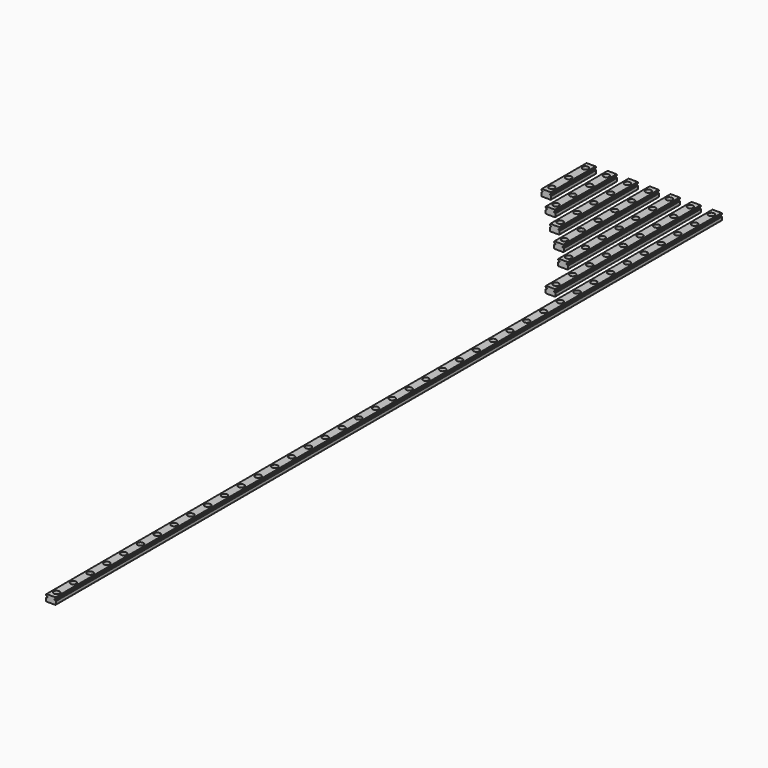
from build123d import *

# Parameters (mm, degrees)
F1_DEPTH         = 40
F2_DEPTH         = 55
F3_DEPTH         = 70
F4_DEPTH         = 85
F5_DEPTH         = 100
F6_DEPTH         = 130
F7_DEPTH         = 595
F9_D             = 2.4
F9_CBORE_D       = 4.2
F9_CBORE_DEPTH   = 2.3
F9_2_D           = 2.4
F9_2_CBORE_D     = 4.2
F9_2_CBORE_DEPTH = 2.3
F9_3_D           = 2.4
F9_3_CBORE_D     = 4.2
F9_3_CBORE_DEPTH = 2.3
F9_4_D           = 2.4
F9_4_CBORE_D     = 4.2
F9_4_CBORE_DEPTH = 2.3
F9_5_D           = 2.4
F9_5_CBORE_D     = 4.2
F9_5_CBORE_DEPTH = 2.3
F9_6_D           = 2.4
F9_6_CBORE_D     = 4.2
F9_6_CBORE_DEPTH = 2.3
F9_7_D           = 2.4
F9_7_CBORE_D     = 4.2
F9_7_CBORE_DEPTH = 2.3


with BuildPart() as f1:
    # F0 (on Front) → F1 (new body)
    with BuildSketch(Plane.XZ):
        with BuildLine():
            Line((-3.217157, -2.4), (3.217157, -2.4))
            Line((3.217157, -2.4), (3.5, -2.117157))
            Line((3.5, -2.117157), (3.5, 0.103098))
            ThreePointArc((3.5, 0.103098), (3.225225, 0.260663), (3.036438, 0.515))
            Line((3.036438, 0.515), (2.6, 0.515))
            Line((2.6, 0.515), (2.6, 1.165))
            Line((2.6, 1.165), (3.036438, 1.165))
            ThreePointArc((3.036438, 1.165), (3.225225, 1.419337), (3.5, 1.576902))
            Line((3.5, 1.576902), (3.5, 2.117157))
            Line((3.5, 2.117157), (3.217157, 2.4))
            Line((3.217157, 2.4), (-3.217157, 2.4))
            Line((-3.217157, 2.4), (-3.5, 2.117157))
            Line((-3.5, 2.117157), (-3.5, 1.576902))
            ThreePointArc((-3.5, 1.576902), (-3.225225, 1.419337), (-3.036438, 1.165))
            Line((-3.036438, 1.165), (-2.6, 1.165))
            Line((-2.6, 1.165), (-2.6, 0.515))
            Line((-2.6, 0.515), (-3.036438, 0.515))
            ThreePointArc((-3.036438, 0.515), (-3.225225, 0.260663), (-3.5, 0.103098))
            Line((-3.5, 0.103098), (-3.5, -2.117157))
            Line((-3.5, -2.117157), (-3.217157, -2.4))
        make_face()
    extrude(amount=F1_DEPTH)

    # F9 (through all)
    with Locations(Plane.XY.offset(2.4)):
        with Locations((0, -5), (0, -20), (0, -35), (15, -5), (15, -20), (15, -35), (15, -50), (30, -5), (45, -5), (60, -5), (75, -5), (90, -5), (60, -20), (45, -20), (30, -20), (60, -35), (90, -65), (90, -50), (45, -50), (45, -35), (75, -50), (75, -65), (30, -50), (30, -35), (60, -65), (60, -50), (45, -65), (30, -65), (90, -35), (90, -20), (75, -20), (75, -35), (90, -95), (75, -95), (60, -95), (90, -110), (75, -110), (90, -125), (75, -125), (90, -80), (75, -80), (60, -80), (45, -80), (90, -305), (90, -290), (90, -215), (90, -200), (90, -185), (90, -350), (90, -320), (90, -335), (90, -245), (90, -230), (90, -140), (90, -365), (90, -380), (90, -260), (90, -275), (90, -395), (90, -155), (90, -170), (90, -530), (90, -545), (90, -455), (90, -440), (90, -425), (90, -560), (90, -575), (90, -590), (90, -470), (90, -485), (90, -500), (90, -515), (90, -410), (90, -410), (90, -425), (90, -440), (90, -455), (90, -470), (90, -485), (90, -500), (90, -515), (90, -530), (90, -545), (90, -560), (90, -575), (90, -590)):
            CounterBoreHole(F9_D / 2, F9_CBORE_D / 2, F9_CBORE_DEPTH)


with BuildPart() as f2:
    # F0 (on Front) → F2 (new body)
    with BuildSketch(Plane.XZ):
        with BuildLine():
            Line((11.5, 0.103098), (11.5, -2.117157))
            Line((11.5, -2.117157), (11.782843, -2.4))
            Line((11.782843, -2.4), (18.217157, -2.4))
            Line((18.217157, -2.4), (18.5, -2.117157))
            Line((18.5, -2.117157), (18.5, 0.103098))
            ThreePointArc((18.5, 0.103098), (18.225225, 0.260663), (18.036438, 0.515))
            Line((18.036438, 0.515), (17.6, 0.515))
            Line((17.6, 0.515), (17.6, 1.165))
            Line((17.6, 1.165), (18.036438, 1.165))
            ThreePointArc((18.036438, 1.165), (18.225225, 1.419337), (18.5, 1.576902))
            Line((18.5, 1.576902), (18.5, 2.117157))
            Line((18.5, 2.117157), (18.217157, 2.4))
            Line((18.217157, 2.4), (11.782843, 2.4))
            Line((11.782843, 2.4), (11.5, 2.117157))
            Line((11.5, 2.117157), (11.5, 1.576902))
            ThreePointArc((11.5, 1.576902), (11.774775, 1.419337), (11.963562, 1.165))
            Line((11.963562, 1.165), (12.4, 1.165))
            Line((12.4, 1.165), (12.4, 0.515))
            Line((12.4, 0.515), (11.963562, 0.515))
            ThreePointArc((11.963562, 0.515), (11.774775, 0.260663), (11.5, 0.103098))
        make_face()
    extrude(amount=F2_DEPTH)

    # F9#2 (through all)
    with Locations(Plane.XY.offset(2.4)):
        with Locations((0, -5), (0, -20), (0, -35), (15, -5), (15, -20), (15, -35), (15, -50), (30, -5), (45, -5), (60, -5), (75, -5), (90, -5), (60, -20), (45, -20), (30, -20), (60, -35), (90, -65), (90, -50), (45, -50), (45, -35), (75, -50), (75, -65), (30, -50), (30, -35), (60, -65), (60, -50), (45, -65), (30, -65), (90, -35), (90, -20), (75, -20), (75, -35), (90, -95), (75, -95), (60, -95), (90, -110), (75, -110), (90, -125), (75, -125), (90, -80), (75, -80), (60, -80), (45, -80), (90, -305), (90, -290), (90, -215), (90, -200), (90, -185), (90, -350), (90, -320), (90, -335), (90, -245), (90, -230), (90, -140), (90, -365), (90, -380), (90, -260), (90, -275), (90, -395), (90, -155), (90, -170), (90, -530), (90, -545), (90, -455), (90, -440), (90, -425), (90, -560), (90, -575), (90, -590), (90, -470), (90, -485), (90, -500), (90, -515), (90, -410), (90, -410), (90, -425), (90, -440), (90, -455), (90, -470), (90, -485), (90, -500), (90, -515), (90, -530), (90, -545), (90, -560), (90, -575), (90, -590)):
            CounterBoreHole(F9_2_D / 2, F9_2_CBORE_D / 2, F9_2_CBORE_DEPTH)


with BuildPart() as f3:
    # F0 (on Front) → F3 (new body)
    with BuildSketch(Plane.XZ):
        with BuildLine():
            Line((26.5, 0.103098), (26.5, -2.117157))
            Line((26.5, -2.117157), (26.782843, -2.4))
            Line((26.782843, -2.4), (33.217157, -2.4))
            Line((33.217157, -2.4), (33.5, -2.117157))
            Line((33.5, -2.117157), (33.5, 0.103098))
            ThreePointArc((33.5, 0.103098), (33.225225, 0.260663), (33.036438, 0.515))
            Line((33.036438, 0.515), (32.6, 0.515))
            Line((32.6, 0.515), (32.6, 1.165))
            Line((32.6, 1.165), (33.036438, 1.165))
            ThreePointArc((33.036438, 1.165), (33.225225, 1.419337), (33.5, 1.576902))
            Line((33.5, 1.576902), (33.5, 2.117157))
            Line((33.5, 2.117157), (33.217157, 2.4))
            Line((33.217157, 2.4), (26.782843, 2.4))
            Line((26.782843, 2.4), (26.5, 2.117157))
            Line((26.5, 2.117157), (26.5, 1.576902))
            ThreePointArc((26.5, 1.576902), (26.774775, 1.419337), (26.963562, 1.165))
            Line((26.963562, 1.165), (27.4, 1.165))
            Line((27.4, 1.165), (27.4, 0.515))
            Line((27.4, 0.515), (26.963562, 0.515))
            ThreePointArc((26.963562, 0.515), (26.774775, 0.260663), (26.5, 0.103098))
        make_face()
    extrude(amount=F3_DEPTH)

    # F9#3 (through all)
    with Locations(Plane.XY.offset(2.4)):
        with Locations((0, -5), (0, -20), (0, -35), (15, -5), (15, -20), (15, -35), (15, -50), (30, -5), (45, -5), (60, -5), (75, -5), (90, -5), (60, -20), (45, -20), (30, -20), (60, -35), (90, -65), (90, -50), (45, -50), (45, -35), (75, -50), (75, -65), (30, -50), (30, -35), (60, -65), (60, -50), (45, -65), (30, -65), (90, -35), (90, -20), (75, -20), (75, -35), (90, -95), (75, -95), (60, -95), (90, -110), (75, -110), (90, -125), (75, -125), (90, -80), (75, -80), (60, -80), (45, -80), (90, -305), (90, -290), (90, -215), (90, -200), (90, -185), (90, -350), (90, -320), (90, -335), (90, -245), (90, -230), (90, -140), (90, -365), (90, -380), (90, -260), (90, -275), (90, -395), (90, -155), (90, -170), (90, -530), (90, -545), (90, -455), (90, -440), (90, -425), (90, -560), (90, -575), (90, -590), (90, -470), (90, -485), (90, -500), (90, -515), (90, -410), (90, -410), (90, -425), (90, -440), (90, -455), (90, -470), (90, -485), (90, -500), (90, -515), (90, -530), (90, -545), (90, -560), (90, -575), (90, -590)):
            CounterBoreHole(F9_3_D / 2, F9_3_CBORE_D / 2, F9_3_CBORE_DEPTH)


with BuildPart() as f4:
    # F0 (on Front) → F4 (new body)
    with BuildSketch(Plane.XZ):
        with BuildLine():
            Line((41.5, 0.103098), (41.5, -2.117157))
            Line((41.5, -2.117157), (41.782843, -2.4))
            Line((41.782843, -2.4), (48.217157, -2.4))
            Line((48.217157, -2.4), (48.5, -2.117157))
            Line((48.5, -2.117157), (48.5, 0.103098))
            ThreePointArc((48.5, 0.103098), (48.225225, 0.260663), (48.036438, 0.515))
            Line((48.036438, 0.515), (47.6, 0.515))
            Line((47.6, 0.515), (47.6, 1.165))
            Line((47.6, 1.165), (48.036438, 1.165))
            ThreePointArc((48.036438, 1.165), (48.225225, 1.419337), (48.5, 1.576902))
            Line((48.5, 1.576902), (48.5, 2.117157))
            Line((48.5, 2.117157), (48.217157, 2.4))
            Line((48.217157, 2.4), (41.782843, 2.4))
            Line((41.782843, 2.4), (41.5, 2.117157))
            Line((41.5, 2.117157), (41.5, 1.576902))
            ThreePointArc((41.5, 1.576902), (41.774775, 1.419337), (41.963562, 1.165))
            Line((41.963562, 1.165), (42.4, 1.165))
            Line((42.4, 1.165), (42.4, 0.515))
            Line((42.4, 0.515), (41.963562, 0.515))
            ThreePointArc((41.963562, 0.515), (41.774775, 0.260663), (41.5, 0.103098))
        make_face()
    extrude(amount=F4_DEPTH)

    # F9#4 (through all)
    with Locations(Plane.XY.offset(2.4)):
        with Locations((0, -5), (0, -20), (0, -35), (15, -5), (15, -20), (15, -35), (15, -50), (30, -5), (45, -5), (60, -5), (75, -5), (90, -5), (60, -20), (45, -20), (30, -20), (60, -35), (90, -65), (90, -50), (45, -50), (45, -35), (75, -50), (75, -65), (30, -50), (30, -35), (60, -65), (60, -50), (45, -65), (30, -65), (90, -35), (90, -20), (75, -20), (75, -35), (90, -95), (75, -95), (60, -95), (90, -110), (75, -110), (90, -125), (75, -125), (90, -80), (75, -80), (60, -80), (45, -80), (90, -305), (90, -290), (90, -215), (90, -200), (90, -185), (90, -350), (90, -320), (90, -335), (90, -245), (90, -230), (90, -140), (90, -365), (90, -380), (90, -260), (90, -275), (90, -395), (90, -155), (90, -170), (90, -530), (90, -545), (90, -455), (90, -440), (90, -425), (90, -560), (90, -575), (90, -590), (90, -470), (90, -485), (90, -500), (90, -515), (90, -410), (90, -410), (90, -425), (90, -440), (90, -455), (90, -470), (90, -485), (90, -500), (90, -515), (90, -530), (90, -545), (90, -560), (90, -575), (90, -590)):
            CounterBoreHole(F9_4_D / 2, F9_4_CBORE_D / 2, F9_4_CBORE_DEPTH)


with BuildPart() as f5:
    # F0 (on Front) → F5 (new body)
    with BuildSketch(Plane.XZ):
        with BuildLine():
            Line((56.5, 0.103098), (56.5, -2.117157))
            Line((56.5, -2.117157), (56.782843, -2.4))
            Line((56.782843, -2.4), (63.217157, -2.4))
            Line((63.217157, -2.4), (63.5, -2.117157))
            Line((63.5, -2.117157), (63.5, 0.103098))
            ThreePointArc((63.5, 0.103098), (63.225225, 0.260663), (63.036438, 0.515))
            Line((63.036438, 0.515), (62.6, 0.515))
            Line((62.6, 0.515), (62.6, 1.165))
            Line((62.6, 1.165), (63.036438, 1.165))
            ThreePointArc((63.036438, 1.165), (63.225225, 1.419337), (63.5, 1.576902))
            Line((63.5, 1.576902), (63.5, 2.117157))
            Line((63.5, 2.117157), (63.217157, 2.4))
            Line((63.217157, 2.4), (56.782843, 2.4))
            Line((56.782843, 2.4), (56.5, 2.117157))
            Line((56.5, 2.117157), (56.5, 1.576902))
            ThreePointArc((56.5, 1.576902), (56.774775, 1.419337), (56.963562, 1.165))
            Line((56.963562, 1.165), (57.4, 1.165))
            Line((57.4, 1.165), (57.4, 0.515))
            Line((57.4, 0.515), (56.963562, 0.515))
            ThreePointArc((56.963562, 0.515), (56.774775, 0.260663), (56.5, 0.103098))
        make_face()
    extrude(amount=F5_DEPTH)

    # F9#5 (through all)
    with Locations(Plane.XY.offset(2.4)):
        with Locations((0, -5), (0, -20), (0, -35), (15, -5), (15, -20), (15, -35), (15, -50), (30, -5), (45, -5), (60, -5), (75, -5), (90, -5), (60, -20), (45, -20), (30, -20), (60, -35), (90, -65), (90, -50), (45, -50), (45, -35), (75, -50), (75, -65), (30, -50), (30, -35), (60, -65), (60, -50), (45, -65), (30, -65), (90, -35), (90, -20), (75, -20), (75, -35), (90, -95), (75, -95), (60, -95), (90, -110), (75, -110), (90, -125), (75, -125), (90, -80), (75, -80), (60, -80), (45, -80), (90, -305), (90, -290), (90, -215), (90, -200), (90, -185), (90, -350), (90, -320), (90, -335), (90, -245), (90, -230), (90, -140), (90, -365), (90, -380), (90, -260), (90, -275), (90, -395), (90, -155), (90, -170), (90, -530), (90, -545), (90, -455), (90, -440), (90, -425), (90, -560), (90, -575), (90, -590), (90, -470), (90, -485), (90, -500), (90, -515), (90, -410), (90, -410), (90, -425), (90, -440), (90, -455), (90, -470), (90, -485), (90, -500), (90, -515), (90, -530), (90, -545), (90, -560), (90, -575), (90, -590)):
            CounterBoreHole(F9_5_D / 2, F9_5_CBORE_D / 2, F9_5_CBORE_DEPTH)


with BuildPart() as f6:
    # F0 (on Front) → F6 (new body)
    with BuildSketch(Plane.XZ):
        with BuildLine():
            Line((71.5, 0.103098), (71.5, -2.117157))
            Line((71.5, -2.117157), (71.782843, -2.4))
            Line((71.782843, -2.4), (78.217157, -2.4))
            Line((78.217157, -2.4), (78.5, -2.117157))
            Line((78.5, -2.117157), (78.5, 0.103098))
            ThreePointArc((78.5, 0.103098), (78.225225, 0.260663), (78.036438, 0.515))
            Line((78.036438, 0.515), (77.6, 0.515))
            Line((77.6, 0.515), (77.6, 1.165))
            Line((77.6, 1.165), (78.036438, 1.165))
            ThreePointArc((78.036438, 1.165), (78.225225, 1.419337), (78.5, 1.576902))
            Line((78.5, 1.576902), (78.5, 2.117157))
            Line((78.5, 2.117157), (78.217157, 2.4))
            Line((78.217157, 2.4), (71.782843, 2.4))
            Line((71.782843, 2.4), (71.5, 2.117157))
            Line((71.5, 2.117157), (71.5, 1.576902))
            ThreePointArc((71.5, 1.576902), (71.774775, 1.419337), (71.963562, 1.165))
            Line((71.963562, 1.165), (72.4, 1.165))
            Line((72.4, 1.165), (72.4, 0.515))
            Line((72.4, 0.515), (71.963562, 0.515))
            ThreePointArc((71.963562, 0.515), (71.774775, 0.260663), (71.5, 0.103098))
        make_face()
    extrude(amount=F6_DEPTH)

    # F9#6 (through all)
    with Locations(Plane.XY.offset(2.4)):
        with Locations((0, -5), (0, -20), (0, -35), (15, -5), (15, -20), (15, -35), (15, -50), (30, -5), (45, -5), (60, -5), (75, -5), (90, -5), (60, -20), (45, -20), (30, -20), (60, -35), (90, -65), (90, -50), (45, -50), (45, -35), (75, -50), (75, -65), (30, -50), (30, -35), (60, -65), (60, -50), (45, -65), (30, -65), (90, -35), (90, -20), (75, -20), (75, -35), (90, -95), (75, -95), (60, -95), (90, -110), (75, -110), (90, -125), (75, -125), (90, -80), (75, -80), (60, -80), (45, -80), (90, -305), (90, -290), (90, -215), (90, -200), (90, -185), (90, -350), (90, -320), (90, -335), (90, -245), (90, -230), (90, -140), (90, -365), (90, -380), (90, -260), (90, -275), (90, -395), (90, -155), (90, -170), (90, -530), (90, -545), (90, -455), (90, -440), (90, -425), (90, -560), (90, -575), (90, -590), (90, -470), (90, -485), (90, -500), (90, -515), (90, -410), (90, -410), (90, -425), (90, -440), (90, -455), (90, -470), (90, -485), (90, -500), (90, -515), (90, -530), (90, -545), (90, -560), (90, -575), (90, -590)):
            CounterBoreHole(F9_6_D / 2, F9_6_CBORE_D / 2, F9_6_CBORE_DEPTH)


with BuildPart() as f7:
    # F0 (on Front) → F7 (new body)
    with BuildSketch(Plane.XZ):
        with BuildLine():
            Line((86.5, 0.103098), (86.5, -2.117157))
            Line((86.5, -2.117157), (86.782843, -2.4))
            Line((86.782843, -2.4), (93.217157, -2.4))
            Line((93.217157, -2.4), (93.5, -2.117157))
            Line((93.5, -2.117157), (93.5, 0.103098))
            ThreePointArc((93.5, 0.103098), (93.225225, 0.260663), (93.036438, 0.515))
            Line((93.036438, 0.515), (92.6, 0.515))
            Line((92.6, 0.515), (92.6, 1.165))
            Line((92.6, 1.165), (93.036438, 1.165))
            ThreePointArc((93.036438, 1.165), (93.225225, 1.419337), (93.5, 1.576902))
            Line((93.5, 1.576902), (93.5, 2.117157))
            Line((93.5, 2.117157), (93.217157, 2.4))
            Line((93.217157, 2.4), (86.782843, 2.4))
            Line((86.782843, 2.4), (86.5, 2.117157))
            Line((86.5, 2.117157), (86.5, 1.576902))
            ThreePointArc((86.5, 1.576902), (86.774775, 1.419337), (86.963562, 1.165))
            Line((86.963562, 1.165), (87.4, 1.165))
            Line((87.4, 1.165), (87.4, 0.515))
            Line((87.4, 0.515), (86.963562, 0.515))
            ThreePointArc((86.963562, 0.515), (86.774775, 0.260663), (86.5, 0.103098))
        make_face()
    extrude(amount=F7_DEPTH)

    # F9#7 (through all)
    with Locations(Plane.XY.offset(2.4)):
        with Locations((0, -5), (0, -20), (0, -35), (15, -5), (15, -20), (15, -35), (15, -50), (30, -5), (45, -5), (60, -5), (75, -5), (90, -5), (60, -20), (45, -20), (30, -20), (60, -35), (90, -65), (90, -50), (45, -50), (45, -35), (75, -50), (75, -65), (30, -50), (30, -35), (60, -65), (60, -50), (45, -65), (30, -65), (90, -35), (90, -20), (75, -20), (75, -35), (90, -95), (75, -95), (60, -95), (90, -110), (75, -110), (90, -125), (75, -125), (90, -80), (75, -80), (60, -80), (45, -80), (90, -305), (90, -290), (90, -215), (90, -200), (90, -185), (90, -350), (90, -320), (90, -335), (90, -245), (90, -230), (90, -140), (90, -365), (90, -380), (90, -260), (90, -275), (90, -395), (90, -155), (90, -170), (90, -530), (90, -545), (90, -455), (90, -440), (90, -425), (90, -560), (90, -575), (90, -590), (90, -470), (90, -485), (90, -500), (90, -515), (90, -410), (90, -410), (90, -425), (90, -440), (90, -455), (90, -470), (90, -485), (90, -500), (90, -515), (90, -530), (90, -545), (90, -560), (90, -575), (90, -590)):
            CounterBoreHole(F9_7_D / 2, F9_7_CBORE_D / 2, F9_7_CBORE_DEPTH)


solid = Compound([f1.part, f2.part, f3.part, f4.part, f5.part, f6.part, f7.part])
